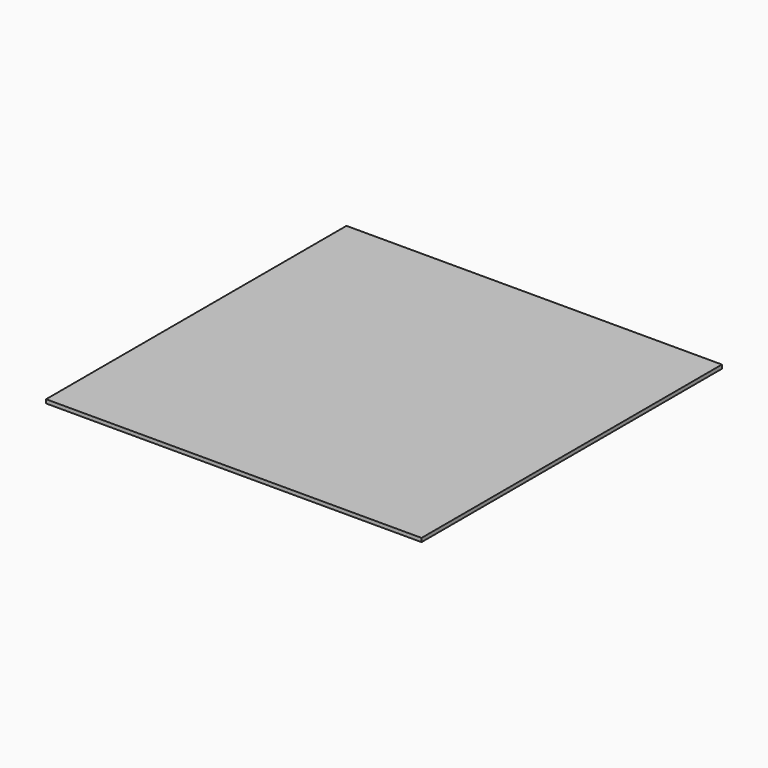
from build123d import *

# Parameters (mm, degrees)
SKETCH002_W  = 300
SKETCH002_H  = 300
PAD007_DEPTH = 3


with BuildPart() as part:
    # Sketch002 → Pad007 (new body)
    with BuildSketch(Plane.XY):
        Rectangle(SKETCH002_W, SKETCH002_H)
    extrude(amount=PAD007_DEPTH)


solid = part.part
